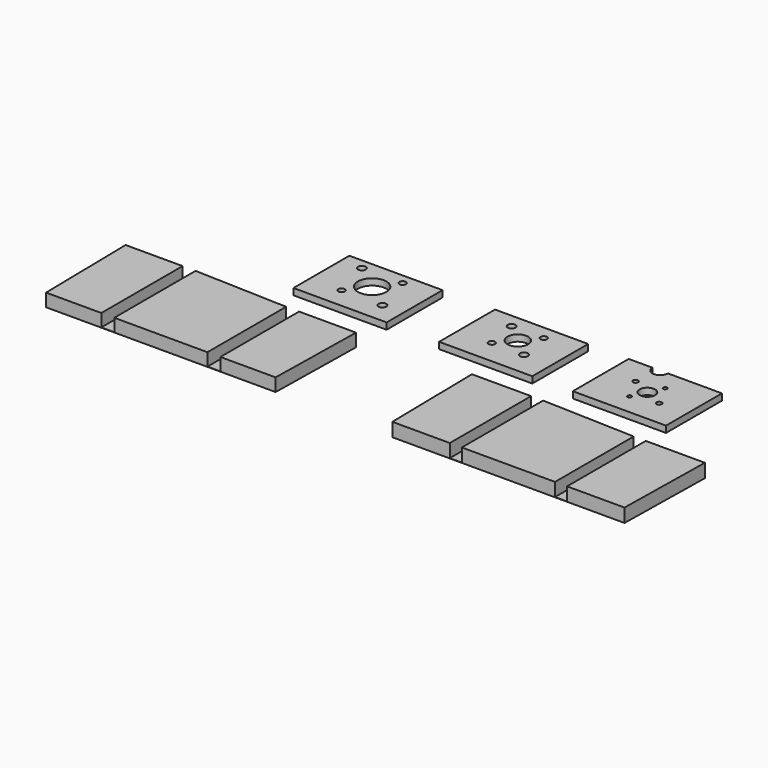
from build123d import *

# Parameters (mm, degrees)
F2_R      = 0.75
F2_R_2    = 1
F2_R_3    = 3
F7_DEPTH  = 2.5
F3_R      = 1.25
F3_R_2    = 1.5
F3_R_3    = 4
F4_R      = 1.25
F4_R_2    = 1.5
F4_R_3    = 5.5
F6_W      = 4.65
F6_H      = 38
F8_DEPTH  = 0.1
F9_DEPTH  = 5.15
F5_W      = 5
F5_H      = 38
F10_DEPTH = 0.1
F11_DEPTH = 5


with BuildPart() as f7:
    # F2 (on Top) → F7 (new body)
    with BuildSketch(Plane.XY):
        with BuildLine():
            Line((0, 27), (0, 0))
            Line((0, 0), (36, 0))
            Line((36, 0), (36, 27))
            Line((36, 27), (30.85, 27))
            Line((30.85, 27), (15.15, 27))
            ThreePointArc((15.15, 27), (12.15, 24), (9.15, 27))
            Line((9.15, 27), (0, 27))
        make_face()
        with Locations((15.4642904296, 8.0621532778)):
            Circle(F2_R, mode=Mode.SUBTRACT)
        with Locations((25.2504622963, 10.1190539061)):
            Circle(F2_R_2, mode=Mode.SUBTRACT)
        with Locations((10.7495377037, 16.8809460939)):
            Circle(F2_R_2, mode=Mode.SUBTRACT)
        with Locations((18, 13.5)):
            Circle(F2_R_3, mode=Mode.SUBTRACT)
        with Locations((20.5357095704, 18.9378467222)):
            Circle(F2_R, mode=Mode.SUBTRACT)
    extrude(amount=F7_DEPTH)


with BuildPart() as f7b:
    # F3 (on Top) → F7, piece 2 (new body)
    with BuildSketch(Plane.XY):
        with BuildLine():
            Line((-51.6549531966, 27), (-51.6549531966, 0))
            Line((-51.6549531966, 0), (-15.6549531966, 0))
            Line((-15.6549531966, 0), (-15.6549531966, 27))
            Line((-15.6549531966, 27), (-20.8049531966, 27))
            Line((-20.8049531966, 27), (-32.0049531966, 27))
            ThreePointArc((-32.0049531966, 27), (-35.5049531966, 23.5), (-39.0049531966, 27))
            Line((-39.0049531966, 27), (-51.6549531966, 27))
        make_face()
        with Locations((-38.7972540741, 9.371644455)):
            Circle(F3_R, mode=Mode.SUBTRACT)
        with Locations((-26.377530987, 9.393517708)):
            Circle(F3_R_2, mode=Mode.SUBTRACT)
        with Locations((-40.9323754063, 21.606482292)):
            Circle(F3_R_2, mode=Mode.SUBTRACT)
        with Locations((-33.6549531966, 15.5)):
            Circle(F3_R_3, mode=Mode.SUBTRACT)
        with Locations((-28.5126523192, 21.628355545)):
            Circle(F3_R, mode=Mode.SUBTRACT)
        with BuildLine():
            Line((-32.0049531966, 27), (-39.0049531966, 27))
            ThreePointArc((-39.0049531966, 27), (-35.5049531966, 23.5), (-32.0049531966, 27))
        make_face()
    extrude(amount=F7_DEPTH)


with BuildPart() as f7c:
    # F4 (on Top) → F7, piece 3 (new body)
    with BuildSketch(Plane.XY):
        with BuildLine():
            Line((-107.9289556146, 27), (-107.9289556146, 0))
            Line((-107.9289556146, 0), (-71.9289556146, 0))
            Line((-71.9289556146, 0), (-71.9289556146, 27))
            Line((-71.9289556146, 27), (-77.0789556146, 27))
            Line((-77.0789556146, 27), (-88.7789556146, 27))
            ThreePointArc((-88.7789556146, 27), (-92.7789556146, 23), (-96.7789556146, 27))
            Line((-96.7789556146, 27), (-107.9289556146, 27))
        make_face()
        with Locations((-95.6461983345, 7.9129626546)):
            Circle(F4_R, mode=Mode.SUBTRACT)
        with Locations((-79.946011739, 7.9773122106)):
            Circle(F4_R_2, mode=Mode.SUBTRACT)
        with Locations((-99.9118994902, 23.0226877894)):
            Circle(F4_R_2, mode=Mode.SUBTRACT)
        with Locations((-89.9289556146, 15.5)):
            Circle(F4_R_3, mode=Mode.SUBTRACT)
        with Locations((-84.2117128946, 23.0870373454)):
            Circle(F4_R, mode=Mode.SUBTRACT)
        with BuildLine():
            Line((-88.7789556146, 27), (-96.7789556146, 27))
            ThreePointArc((-96.7789556146, 27), (-92.7789556146, 23), (-88.7789556146, 27))
        make_face()
    extrude(amount=F7_DEPTH)


with BuildPart() as f8:
    # F6 (on Top) → F8 (new body)
    with BuildSketch(Plane.XY):
        Polygon((-26.8367075327, -53.5980651379), (-4.65, -53.5980651379), (-4.65, -15.5980651379), (-4.65, -14.3409174362), (-27.5, -14.3409174362), (-27.5219435948, -14.3409174362), (-27.5, -15.5980651379), align=None)
        Polygon((-4.65, -53.5980651379), (0, -53.5980651379), (0, -15.5980651379), (0, -14.3409174362), (-4.65, -14.3409174362), (-4.65, -15.5980651379), align=None)
        Polygon((0, -15.5980651379), (0, -53.5980651379), (36, -53.5980651379), (36, -15.5980651379), (0, -14.3409174362), align=None)
        with Locations((38.325, -34.5980651379)):
            Rectangle(F6_W, F6_H)
        Polygon((40.65, -15.5980651379), (40.65, -53.5980651379), (62.8367075327, -53.5980651379), (63.5, -15.5980651379), align=None)
    extrude(amount=-F8_DEPTH)

    # F6 (on Top) → F9 (join)
    with BuildSketch(Plane.XY):
        Polygon((-26.8367075327, -53.5980651379), (-4.65, -53.5980651379), (-4.65, -15.5980651379), (-4.65, -14.3409174362), (-27.5, -14.3409174362), (-27.5219435948, -14.3409174362), (-27.5, -15.5980651379), align=None)
        Polygon((0, -15.5980651379), (0, -53.5980651379), (36, -53.5980651379), (36, -15.5980651379), (0, -14.3409174362), align=None)
        Polygon((40.65, -15.5980651379), (40.65, -53.5980651379), (62.8367075327, -53.5980651379), (63.5, -15.5980651379), align=None)
    extrude(amount=F9_DEPTH)


with BuildPart() as f10:
    # F5 (on Top) → F10 (new body)
    with BuildSketch(Plane.XY):
        Polygon((-139.9830095768, -52.7081678733), (-134.9830095768, -52.7081678733), (-134.9830095768, -14.7081678733), (-134.9830095768, -13.4510201716), (-139.9830095768, -13.4510201716), (-139.9830095768, -14.7081678733), align=None)
        with Locations((-96.4830095768, -33.7081678733)):
            Rectangle(F5_W, F5_H)
        Polygon((-161.3197171095, -52.7081678733), (-139.9830095768, -52.7081678733), (-139.9830095768, -14.7081678733), (-139.9830095768, -13.4510201716), (-161.9830095768, -13.4510201716), (-162.0049531716, -13.4510201716), (-161.9830095768, -14.7081678733), align=None)
        Polygon((-134.9830095768, -14.7081678733), (-134.9830095768, -52.7081678733), (-98.9830095768, -52.7081678733), (-98.9830095768, -14.7081678733), (-134.9830095768, -13.4510201716), align=None)
        Polygon((-93.9830095768, -14.7081678733), (-93.9830095768, -52.7081678733), (-72.6463020441, -52.7081678733), (-71.9830095768, -14.7081678733), align=None)
    extrude(amount=F10_DEPTH)


with BuildPart() as f11:
    # F5 (on Top) → F11 (new body)
    with BuildSketch(Plane.XY):
        Polygon((-161.3197171095, -52.7081678733), (-139.9830095768, -52.7081678733), (-139.9830095768, -14.7081678733), (-139.9830095768, -13.4510201716), (-161.9830095768, -13.4510201716), (-162.0049531716, -13.4510201716), (-161.9830095768, -14.7081678733), align=None)
    extrude(amount=F11_DEPTH)


with BuildPart() as f11b:
    # F5 (on Top) → F11, piece 2 (new body)
    with BuildSketch(Plane.XY):
        Polygon((-134.9830095768, -14.7081678733), (-134.9830095768, -52.7081678733), (-98.9830095768, -52.7081678733), (-98.9830095768, -14.7081678733), (-134.9830095768, -13.4510201716), align=None)
    extrude(amount=F11_DEPTH)


with BuildPart() as f11c:
    # F5 (on Top) → F11, piece 3 (new body)
    with BuildSketch(Plane.XY):
        Polygon((-93.9830095768, -14.7081678733), (-93.9830095768, -52.7081678733), (-72.6463020441, -52.7081678733), (-71.9830095768, -14.7081678733), align=None)
    extrude(amount=F11_DEPTH)


solid = Compound([f7.part, f7b.part, f7c.part, f8.part, f10.part, f11.part, f11b.part, f11c.part])
